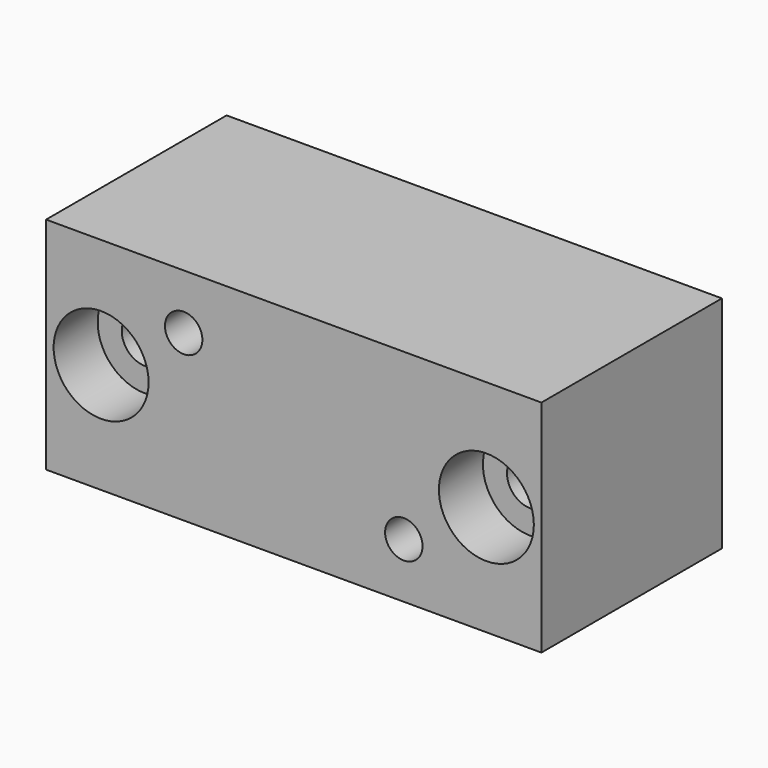
from build123d import *

# Parameters (mm, degrees)
F0_W           = 90
F0_H           = 40
F1_DEPTH       = 41
F3_D           = 8.5
F3_CBORE_D     = 17.25
F3_CBORE_DEPTH = 10
F4_D           = 6.8
F4_DEPTH       = 18.25
F4_TIP         = 2.0429261047


with BuildPart() as f1:
    # F0 (on Front) → F1 (new body)
    with BuildSketch(Plane.XZ):
        with Locations((45, 20)):
            Rectangle(F0_W, F0_H)
    extrude(amount=F1_DEPTH)

    # F3 (through all)
    with Locations(Plane.XZ.offset(41)):
        with Locations((10, 20), (80, 20)):
            CounterBoreHole(F3_D / 2, F3_CBORE_D / 2, F3_CBORE_DEPTH)

    # F4
    with Locations(Plane.XZ.offset(41)):
        with Locations((25, 30), (65, 10)):
            Hole(F4_D / 2, depth=F4_DEPTH)
            with Locations((0, 0, -(F4_DEPTH + F4_TIP / 2))):  # 118° drill point
                Cone(0, F4_D / 2, F4_TIP, mode=Mode.SUBTRACT)


solid = f1.part
